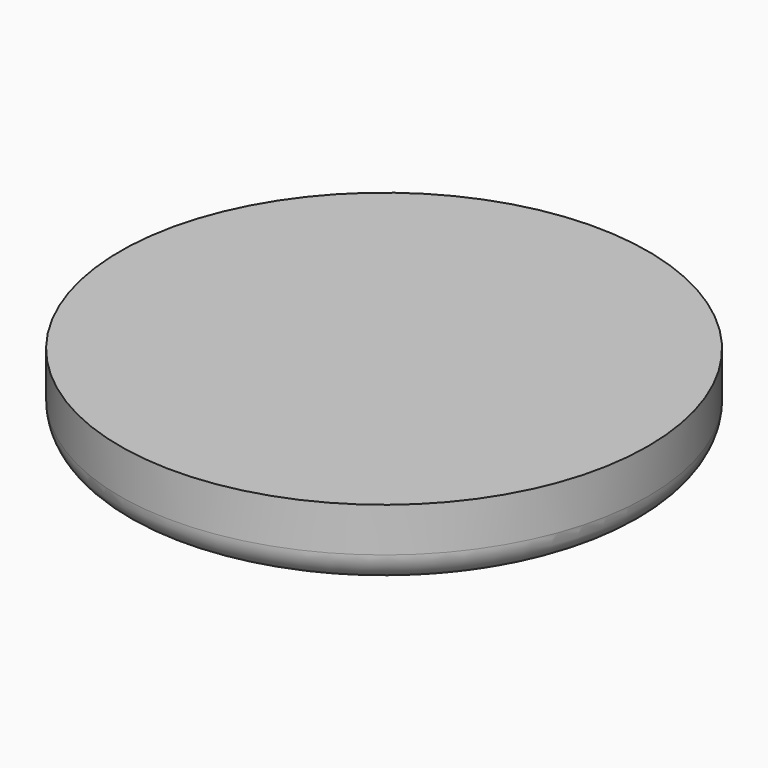
from build123d import *

# Parameters (mm, degrees)
F0_R     = 45.543939
F1_DEPTH = 12.7
F2_R     = 5.08


with BuildPart() as f1:
    # F0 (on Top) → F1 (new body)
    with BuildSketch(Plane.XY):
        Circle(F0_R)
    extrude(amount=-F1_DEPTH)

    # F2
    f2_edges = [f1.edges().sort_by_distance(p)[0] for p in [
        (-45.543939, 0, -12.7),
    ]]
    fillet(f2_edges, radius=F2_R)


solid = f1.part
